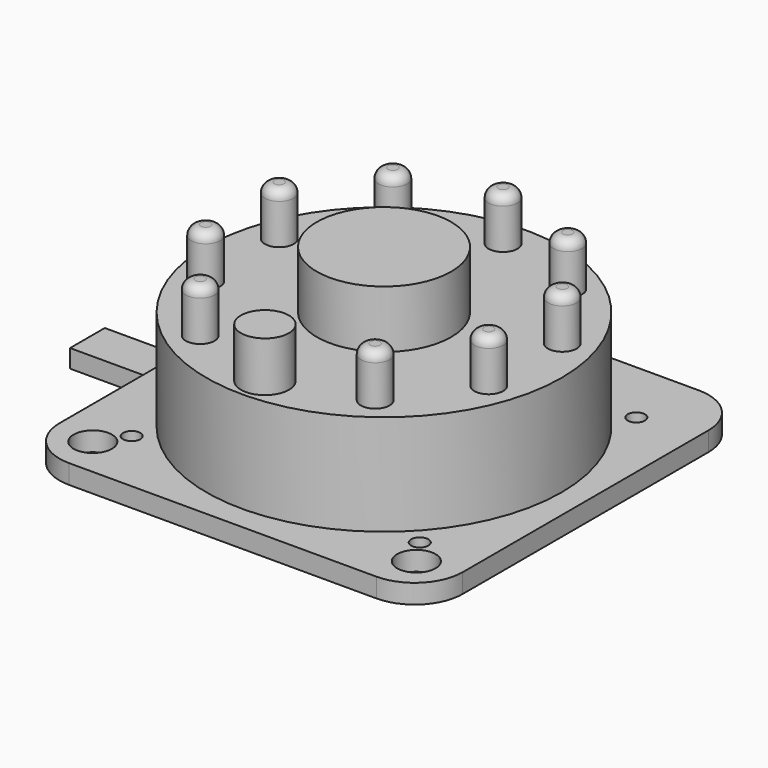
from build123d import *

# Parameters (mm, degrees)
F0_W      = 42
F0_H      = 42
F0_R      = 2
F0_R_2    = 0.9
F1_DEPTH  = 2
F2_R      = 5
F3_R      = 18.5
F4_DEPTH  = 10.5
F5_R      = 7
F6_DEPTH  = 6
F7_R      = 2.5
F7_R_2    = 1.5
F8_DEPTH  = 5.2
F9_R      = 1
F10_W     = 5.24172
F10_H     = 16.717478
F11_DEPTH = 4
F12_W     = 4.521941
F12_H     = 1.890685
F13_DEPTH = 10


with BuildPart() as f1:
    # F0 (on Top) → F1 (new body)
    with BuildSketch(Plane.XY):
        Rectangle(F0_W, F0_H)
        with Locations((-16.85, -16.85)):
            Circle(F0_R, mode=Mode.SUBTRACT)
        with Locations((-15, -14.1)):
            Circle(F0_R_2, mode=Mode.SUBTRACT)
        with Locations((16.85, -16.85)):
            Circle(F0_R, mode=Mode.SUBTRACT)
        with Locations((15, -14.1)):
            Circle(F0_R_2, mode=Mode.SUBTRACT)
        with Locations((-15, 14.1)):
            Circle(F0_R_2, mode=Mode.SUBTRACT)
        with Locations((-16.85, 16.85)):
            Circle(F0_R, mode=Mode.SUBTRACT)
        with Locations((15, 14.1)):
            Circle(F0_R_2, mode=Mode.SUBTRACT)
        with Locations((16.85, 16.85)):
            Circle(F0_R, mode=Mode.SUBTRACT)
        with Locations((16.85, 16.85)):
            Circle(F0_R)
        with Locations((-16.85, 16.85)):
            Circle(F0_R)
    extrude(amount=F1_DEPTH)

    # F2
    f2_edges = [f1.edges().sort_by_distance(p)[0] for p in [
        (21, 21, 1),
        (-21, 21, 1),
        (-21, -21, 1),
        (21, -21, 1),
    ]]
    fillet(f2_edges, radius=F2_R)

    # F3 (on face) → F4 (join)
    with BuildSketch(Plane.XY.offset(2)):
        Circle(F3_R)
    extrude(amount=F4_DEPTH)

    # F5 (on face) → F6 (join)
    with BuildSketch(Plane.XY.offset(12.5)):
        Circle(F5_R)
    extrude(amount=F6_DEPTH)

    # F7 (on face) → F8 (join)
    with BuildSketch(Plane.XY.offset(12.5)):
        with Locations((0, -15.5)):
            Circle(F7_R)
        with Locations((0, -15.5)):
            Circle(F7_R_2, mode=Mode.SUBTRACT)
        with Locations((9.110671, -12.539763)):
            Circle(F7_R_2)
        with Locations((14.741376, -4.789763)):
            Circle(F7_R_2)
        with Locations((14.741376, 4.789763)):
            Circle(F7_R_2)
        with Locations((9.110671, 12.539763)):
            Circle(F7_R_2)
        with Locations((0, 15.5)):
            Circle(F7_R_2)
        with Locations((-9.110671, 12.539763)):
            Circle(F7_R_2)
        with Locations((-14.741376, 4.789763)):
            Circle(F7_R_2)
        with Locations((-14.741376, -4.789763)):
            Circle(F7_R_2)
        with Locations((-9.110671, -12.539763)):
            Circle(F7_R_2)
        with Locations((0, -15.5)):
            Circle(F7_R_2)
    extrude(amount=F8_DEPTH)

    # F9
    f9_edges = [f1.edges().sort_by_distance(p)[0] for p in [
        (13.241376, -4.789763, 17.7),
        (13.241376, 4.789763, 17.7),
        (7.610671, -12.539763, 17.7),
        (-10.610671, -12.539763, 17.7),
        (-16.241376, -4.789763, 17.7),
        (-16.241376, 4.789763, 17.7),
        (-10.610671, 12.539763, 17.7),
        (-1.5, 15.5, 17.7),
        (7.610671, 12.539763, 17.7),
    ]]
    fillet(f9_edges, radius=F9_R)

    # F10 (on face) → F11 (join)
    with BuildSketch(Plane(origin=(0, 0, 0), x_dir=(1, 0, 0), z_dir=(0, 0, -1))):
        with Locations((-18.37914, -3.836798)):
            Rectangle(F10_W, F10_H)
    extrude(amount=F11_DEPTH)

    # F12 (on face) → F13 (join)
    with BuildSketch(Plane(origin=(-21, 0, 0), x_dir=(0, -1, 0), z_dir=(-1, 0, 0))):
        with Locations((-0.137028, -0.945342)):
            Rectangle(F12_W, F12_H)
    extrude(amount=F13_DEPTH)


solid = f1.part
